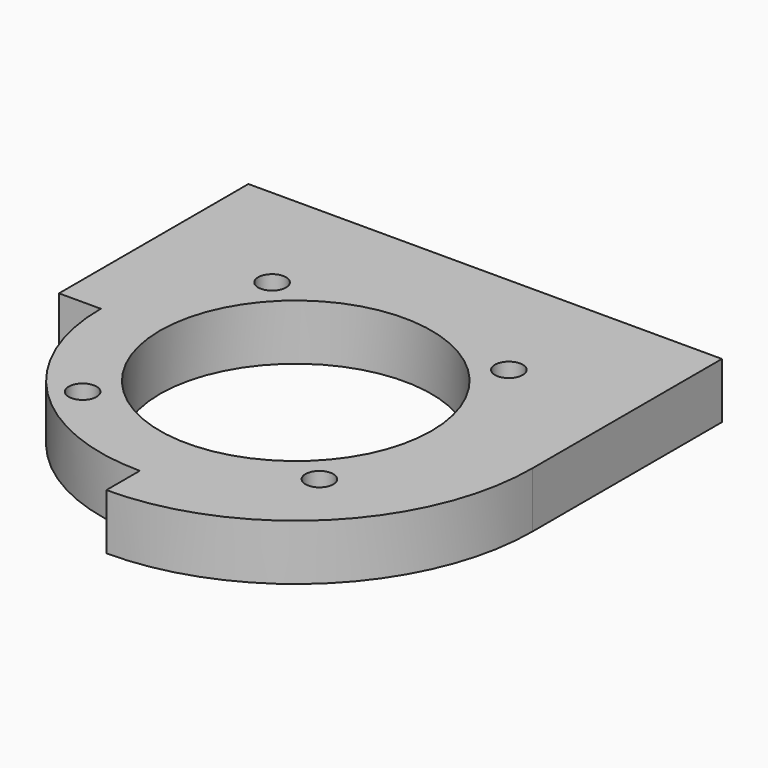
from build123d import *

# Parameters (mm, degrees)
F0_R     = 3.175
F0_R_2   = 30.95625
F1_DEPTH = 12.7


with BuildPart() as f1:
    # F0 (on Top) → F1 (new body)
    with BuildSketch(Plane.XY):
        with BuildLine():
            Line((-53.975, 0), (-44.45, 0))
            ThreePointArc((-44.45, 0), (-31.430896, -31.430896), (0, -44.45))
            Line((0, -44.45), (0, -53.975))
            ThreePointArc((0, -53.975), (38.166089, -38.166089), (53.975, 0))
            Line((53.975, 0), (53.975, 53.975))
            Line((53.975, 53.975), (-53.975, 53.975))
            Line((-53.975, 53.975), (-53.975, 0))
        make_face()
        with Locations((-26.9875, -26.9875)):
            Circle(F0_R, mode=Mode.SUBTRACT)
        with Locations((26.9875, -26.9875)):
            Circle(F0_R, mode=Mode.SUBTRACT)
        with Locations((-26.9875, 26.9875)):
            Circle(F0_R, mode=Mode.SUBTRACT)
        Circle(F0_R_2, mode=Mode.SUBTRACT)
        with Locations((26.9875, 26.9875)):
            Circle(F0_R, mode=Mode.SUBTRACT)
    extrude(amount=F1_DEPTH)


solid = f1.part
